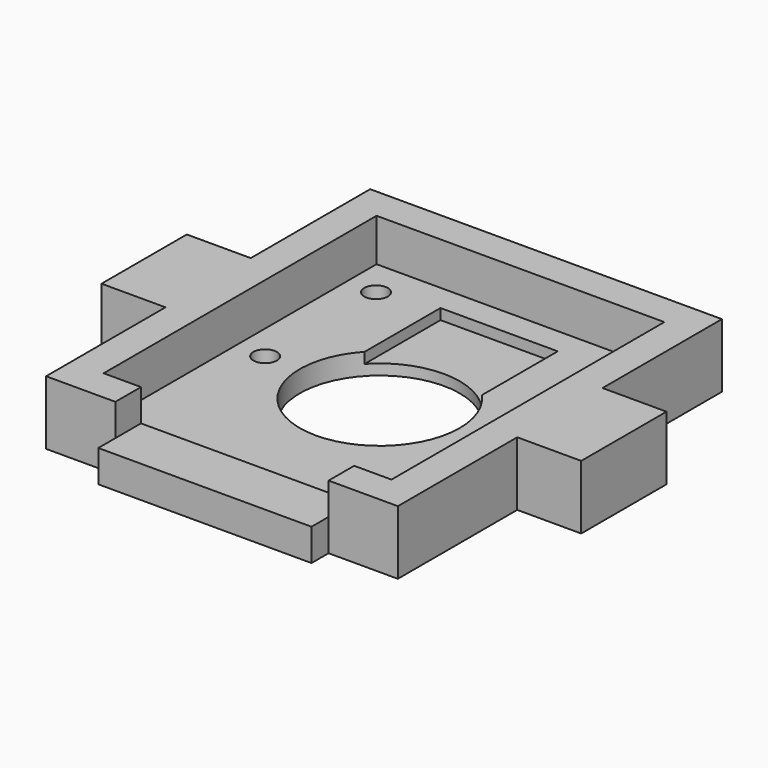
from build123d import *

# Parameters (mm, degrees)
F0_W      = 33
F0_H      = 38
F0_W_2    = 27
F0_H_2    = 32
F1_DEPTH  = 6
F2_DEPTH  = 2
F4_D      = 2.2
F4_DEPTH  = 5
F4_TIP    = 0.6609466809
F5_W      = 10
F5_H      = 6
F6_DEPTH  = 6
F7_W      = 10
F7_H      = 6
F8_DEPTH  = 6
F10_D     = 2.2
F10_DEPTH = 5
F10_TIP   = 0.6609466809
F11_W     = 20
F11_H     = 3
F12_DEPTH = 3
F13_W     = 20
F13_H     = 3
F14_DEPTH = 2
F15_W     = 11
F15_H     = 15
F16_DEPTH = 2
F3_R      = 7.5
F17_DEPTH = 2.001


with BuildPart() as f1:
    # F0 (on Top) → F1 (new body)
    with BuildSketch(Plane.XY):
        Rectangle(F0_W, F0_H)
        Rectangle(F0_W_2, F0_H_2, mode=Mode.SUBTRACT)
    extrude(amount=F1_DEPTH)

    # F0 (on Top) → F2 (join)
    with BuildSketch(Plane.XY):
        Rectangle(F0_W_2, F0_H_2)
    extrude(amount=F2_DEPTH)

    # F4
    with Locations(Plane(origin=(0, 0, 0), x_dir=(1, 0, 0), z_dir=(0, 0, -1))):
        with Locations((-10.75, 0.5), (-10.75, -12.5), (10.75, -12.5), (10.75, 0.5)):
            Hole(F4_D / 2, depth=F4_DEPTH)
            with Locations((0, 0, -(F4_DEPTH + F4_TIP / 2))):  # 118° drill point
                Cone(0, F4_D / 2, F4_TIP, mode=Mode.SUBTRACT)

    # F5 (on face) → F6 (join)
    with BuildSketch(Plane.YZ.offset(16.5)):
        with Locations((0, 3)):
            Rectangle(F5_W, F5_H)
    extrude(amount=F6_DEPTH)

    # F7 (on face) → F8 (join)
    with BuildSketch(Plane(origin=(-16.5, 0, 0), x_dir=(0, -1, 0), z_dir=(-1, 0, 0))):
        with Locations((0, 3)):
            Rectangle(F7_W, F7_H)
    extrude(amount=F8_DEPTH)

    # F10
    with Locations(Plane(origin=(0, 0, 0), x_dir=(1, 0, 0), z_dir=(0, 0, -1))):
        with Locations((20.625, 0), (-20.625, 0)):
            Hole(F10_D / 2, depth=F10_DEPTH)
            with Locations((0, 0, -(F10_DEPTH + F10_TIP / 2))):  # 118° drill point
                Cone(0, F10_D / 2, F10_TIP, mode=Mode.SUBTRACT)

    # F11 (on face) → F12 (cut, through all)
    with BuildSketch(Plane.XZ.offset(19)):
        with Locations((0, 4.5)):
            Rectangle(F11_W, F11_H)
    extrude(amount=-F12_DEPTH, mode=Mode.SUBTRACT)

    # F13 (on face) → F14 (join)
    with BuildSketch(Plane.XZ.offset(19)):
        with Locations((0, 1.5)):
            Rectangle(F13_W, F13_H)
    extrude(amount=F14_DEPTH)

    # F15 (on face) → F16 (cut)
    with BuildSketch(Plane.XY.offset(3)):
        with Locations((0, 6)):
            Rectangle(F15_W, F15_H)
    extrude(amount=-F16_DEPTH, mode=Mode.SUBTRACT)

    # F3 (on face) → F17 (cut, through all)
    with BuildSketch(Plane(origin=(0, 0, 0), x_dir=(1, 0, 0), z_dir=(0, 0, -1))):
        with Locations((0, 0.5)):
            Circle(F3_R)
    extrude(amount=-F17_DEPTH, mode=Mode.SUBTRACT)


solid = f1.part
